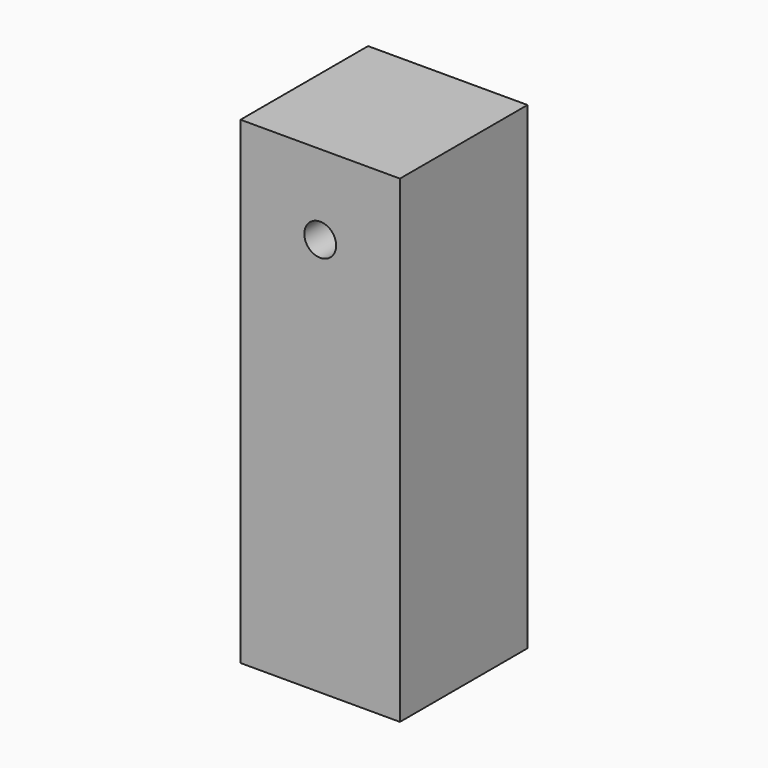
from build123d import *

# Parameters (mm, degrees)
F0_W     = 50
F0_H     = 150
F0_R     = 5
F1_DEPTH = 50
F3_D     = 5
F3_DEPTH = 15
F3_TIP   = 1.5021515476


with BuildPart() as f1:
    # F0 (on Front) → F1 (new body)
    with BuildSketch(Plane.XZ):
        Rectangle(F0_W, F0_H)
        with Locations((0, 50)):
            Circle(F0_R, mode=Mode.SUBTRACT)
    extrude(amount=F1_DEPTH)

    # F3
    with Locations(Plane(origin=(0, 0, -75), x_dir=(1, 0, 0), z_dir=(0, 0, -1))):
        with Locations((12.5, 37.5), (12.5, 12.5), (-12.5, 12.5), (-12.5, 37.5)):
            Hole(F3_D / 2, depth=F3_DEPTH)
            with Locations((0, 0, -(F3_DEPTH + F3_TIP / 2))):  # 118° drill point
                Cone(0, F3_D / 2, F3_TIP, mode=Mode.SUBTRACT)


solid = f1.part
